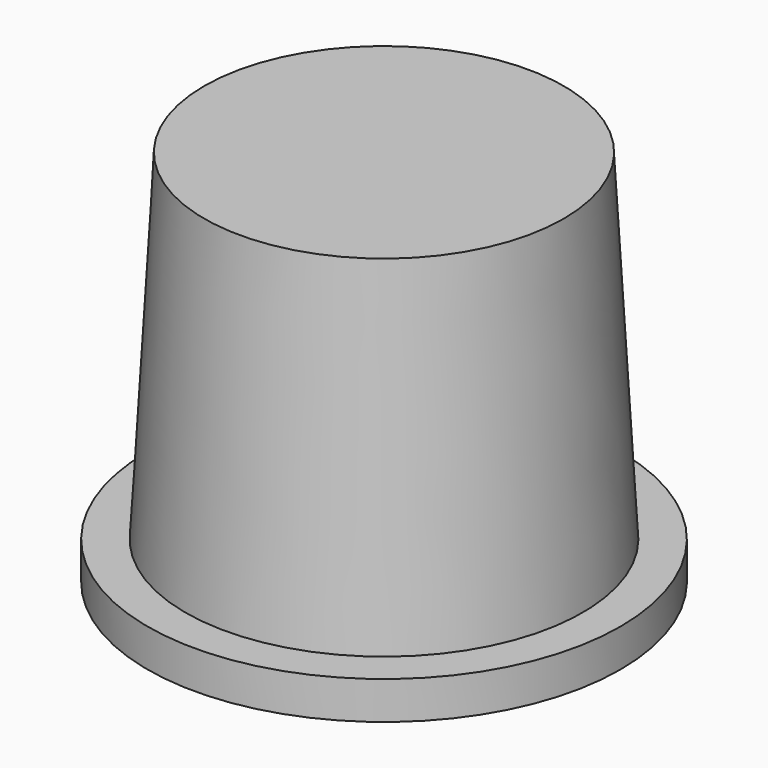
from build123d import *


with BuildPart() as part:
    # Sketch → Revolution (revolve)
    with BuildSketch(Plane.XZ):
        Polygon((-2.5, 0.4), (-2.5, 0), (0, 0), (0, 4), (-1.9, 4), (-2.1, 0.4), align=None)
    revolve(axis=Axis((0, 0, 0), (0, 0, 1)))


solid = part.part
